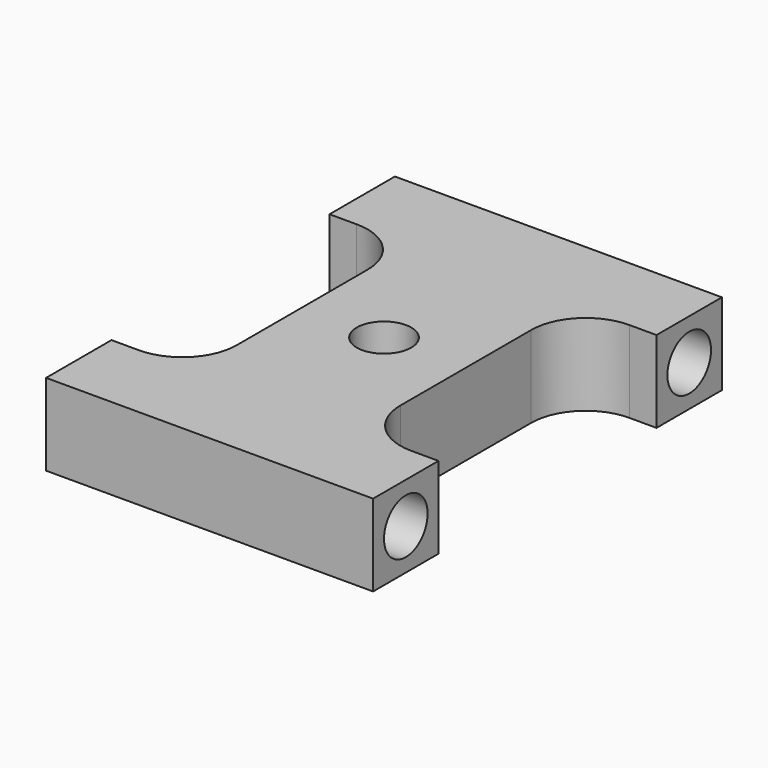
from build123d import *

# Parameters (mm, degrees)
F0_W     = 38.1
F0_H     = 50.8
F1_DEPTH = 9.525
F3_DEPTH = 9.526
F4_R     = 3.175
F5_DEPTH = 15.875
F6_R     = 3.175
F7_DEPTH = 9.526
F8_R     = 3.175
F9_DEPTH = 15.875


with BuildPart() as f1:
    # F0 (on Top) → F1 (new body)
    with BuildSketch(Plane.XY):
        Rectangle(F0_W, F0_H)
    extrude(amount=F1_DEPTH)

    # F2 (on face) → F3 (cut, through all)
    with BuildSketch(Plane.XY.offset(9.525)):
        with BuildLine():
            Line((-15.875, 15.875), (-19.05, 15.875))
            Line((-19.05, 15.875), (-19.05, -15.875))
            Line((-19.05, -15.875), (-15.875, -15.875))
            ThreePointArc((-15.875, -15.875), (-11.384872, -14.015128), (-9.525, -9.525))
            Line((-9.525, -9.525), (-9.525, 9.525))
            ThreePointArc((-9.525, 9.525), (-11.384872, 14.015128), (-15.875, 15.875))
        make_face()
        with BuildLine():
            Line((19.05, 15.875), (15.875, 15.875))
            ThreePointArc((15.875, 15.875), (11.384872, 14.015128), (9.525, 9.525))
            Line((9.525, 9.525), (9.525, -9.525))
            ThreePointArc((9.525, -9.525), (11.384872, -14.015128), (15.875, -15.875))
            Line((15.875, -15.875), (19.05, -15.875))
            Line((19.05, -15.875), (19.05, 15.875))
        make_face()
    extrude(amount=-F3_DEPTH, mode=Mode.SUBTRACT)

    # F4 (on face) → F5 (cut)
    with BuildSketch(Plane(origin=(-19.05, 0, 0), x_dir=(0, -1, 0), z_dir=(-1, 0, 0))):
        with Locations((-20.6375, 4.7625)):
            Circle(F4_R)
        with Locations((20.6375, 4.7625)):
            Circle(F4_R)
    extrude(amount=-F5_DEPTH, mode=Mode.SUBTRACT)

    # F6 (on face) → F7 (cut, through all)
    with BuildSketch(Plane.XY.offset(9.525)):
        Circle(F6_R)
    extrude(amount=-F7_DEPTH, mode=Mode.SUBTRACT)

    # F8 (on face) → F9 (cut)
    with BuildSketch(Plane.YZ.offset(19.05)):
        with Locations((-20.6375, 4.7625)):
            Circle(F8_R)
        with Locations((20.6375, 4.7625)):
            Circle(F8_R)
    extrude(amount=-F9_DEPTH, mode=Mode.SUBTRACT)


solid = f1.part
